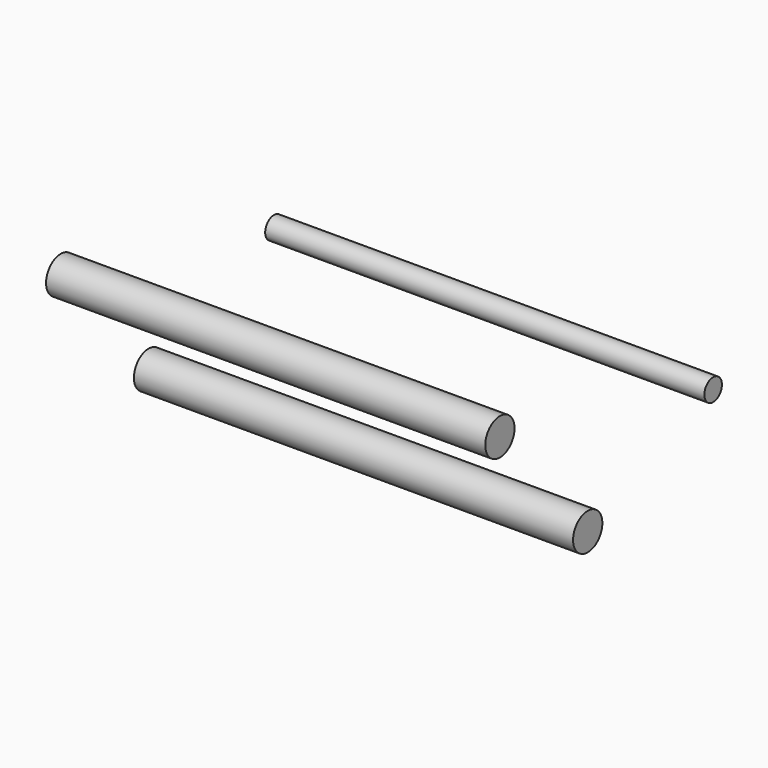
from build123d import *

# Parameters (mm, degrees)
CYLINDER800_R               = 2.5
CYLINDER800_DEPTH           = 60
CYLINDER799_R               = 2.5
CYLINDER799_DEPTH           = 60
CYLINDER804_R               = 1.5
CYLINDER804_DEPTH           = 60
CYLINDER804_ROLL_ANGLE      = 90
CYLINDER804_PITCH_ANGLE     = 86
CYLINDER804_PLACEMENT_ANGLE = 90


with BuildPart() as cylinder800:
    # Cylinder800 → Cylinder800 (new body)
    with BuildSketch(Plane(origin=(81, 70, 21), x_dir=(0, 0, -1), z_dir=(1, 0, 0))):
        Circle(CYLINDER800_R)
    extrude(amount=CYLINDER800_DEPTH)


with BuildPart() as fusion590:
    # Cylinder799 → Cylinder799 (new body)
    with BuildSketch(Plane(origin=(81, 85, 3.5), x_dir=(0, 0, -1), z_dir=(1, 0, 0))):
        Circle(CYLINDER799_R)
    extrude(amount=CYLINDER799_DEPTH)

    # Fusion590: union Cylinder800
    add(cylinder800.part)


with BuildPart() as gearbox_rods:
    # Cylinder804 → Cylinder804 (new body)
    with BuildSketch(Plane.XY):
        Circle(CYLINDER804_R)
    extrude(amount=CYLINDER804_DEPTH)


with BuildPart() as gearbox_rods_1:
    # Cylinder804 roll: moved
    add(gearbox_rods.part.rotate(Axis((0, 0, 0), (1, 0, 0)), CYLINDER804_ROLL_ANGLE))


with BuildPart() as gearbox_rods_2:
    # Cylinder804 pitch: moved
    add(gearbox_rods_1.part.rotate(Axis((0, 0, 0), (0, 1, 0)), CYLINDER804_PITCH_ANGLE))


with BuildPart() as gearbox_rods_3:
    # Cylinder804 placement: moved
    add(gearbox_rods_2.part.moved(Location((81, 106.418699, 11.864468))).rotate(Axis((81, 106.418699, 11.864468), (0, 0, 1)), CYLINDER804_PLACEMENT_ANGLE))

    # Fusion610: union Fusion590
    add(fusion590.part)


with BuildPart() as gearbox_rods_4:
    # Fusion610 placement: moved
    add(gearbox_rods_3.part.moved(Location((0, 0, 2))))


solid = gearbox_rods_4.part
